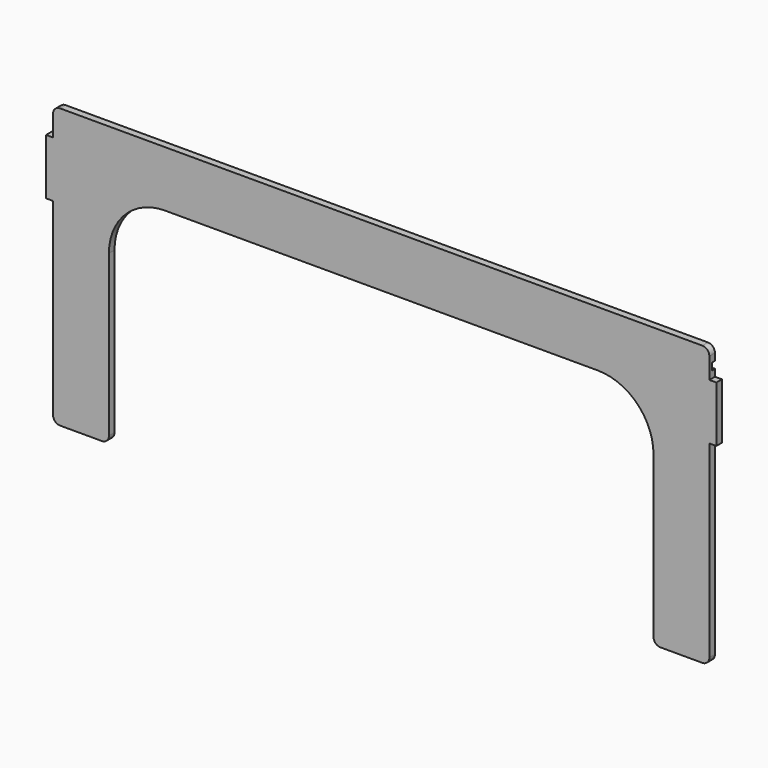
from build123d import *

# Parameters (mm, degrees)
F0_W     = 12.7
F0_H     = 101.6
F1_DEPTH = 12.7
F2_W     = 1193.8
F2_H     = 12.7
F3_DEPTH = 6.35


with BuildPart() as f1:
    # F0 (on Front) → F1 (new body)
    with BuildSketch(Plane.XZ):
        with BuildLine():
            ThreePointArc((-480.432578, -238.925816), (-476.712834, -247.906072), (-467.732578, -251.625816))
            Line((-467.732578, -251.625816), (-391.532578, -251.625816))
            ThreePointArc((-391.532578, -251.625816), (-382.552322, -247.906072), (-378.832578, -238.925816))
            Line((-378.832578, -238.925816), (-378.832578, 53.174184))
            ThreePointArc((-378.832578, 53.174184), (-349.074627, 125.016233), (-277.232578, 154.774184))
            Line((-277.232578, 154.774184), (510.167422, 154.774184))
            ThreePointArc((510.167422, 154.774184), (582.009471, 125.016233), (611.767422, 53.174184))
            Line((611.767422, 53.174184), (611.767422, -238.925816))
            ThreePointArc((611.767422, -238.925816), (615.487166, -247.906072), (624.467422, -251.625816))
            Line((624.467422, -251.625816), (700.667422, -251.625816))
            ThreePointArc((700.667422, -251.625816), (709.647678, -247.906072), (713.367422, -238.925816))
            Line((713.367422, -238.925816), (713.367422, 103.974184))
            Line((713.367422, 103.974184), (713.367422, 205.574184))
            Line((713.367422, 205.574184), (713.367422, 243.674184))
            ThreePointArc((713.367422, 243.674184), (709.647678, 252.65444), (700.667422, 256.374184))
            Line((700.667422, 256.374184), (-467.732578, 256.374184))
            ThreePointArc((-467.732578, 256.374184), (-476.712834, 252.65444), (-480.432578, 243.674184))
            Line((-480.432578, 243.674184), (-480.432578, 205.574184))
            Line((-480.432578, 205.574184), (-480.432578, 103.974184))
            Line((-480.432578, 103.974184), (-480.432578, -238.925816))
        make_face()
        with Locations((-486.782578, 154.774184)):
            Rectangle(F0_W, F0_H)
        with Locations((719.717422, 154.774184)):
            Rectangle(F0_W, F0_H)
    extrude(amount=F1_DEPTH)

    # F2 (on face) → F3 (cut)
    with BuildSketch(Plane(origin=(0, 0, 0), x_dir=(-1, 0, 0), z_dir=(0, 1, 0))):
        with Locations((-116.467422, 224.624184)):
            Rectangle(F2_W, F2_H)
    extrude(amount=-F3_DEPTH, mode=Mode.SUBTRACT)


solid = f1.part
